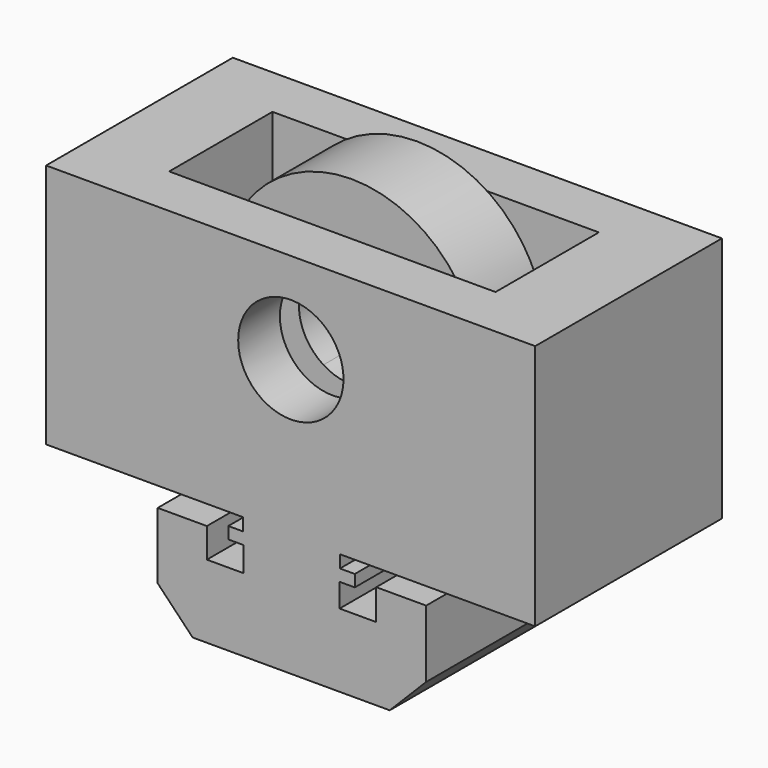
from build123d import *

# Parameters (mm, degrees)
F1_R     = 11
F1_R_2   = 4.5
F2_DEPTH = 3.5
F3_DEPTH = 10
F4_DEPTH = 10
F5_DEPTH = 3.5
F6_W     = 27.9663609021
F6_H     = 4.4681232143
F6_H_2   = 4.468114
F7_DEPTH = 20.1168
F9_D     = 9.0238834
F9_2_D   = 9.0238834


with BuildPart() as f2:
    # F1 (on Front) → F2 (new body)
    with BuildSketch(Plane.XZ):
        with Locations((0, 68.3300495148)):
            Circle(F1_R)
        with Locations((0, 68.3300495148)):
            Circle(F1_R_2, mode=Mode.SUBTRACT)
    extrude(amount=F2_DEPTH)

    # F1 (on Front) → F5 (join)
    with BuildSketch(Plane.XZ):
        with Locations((0, 68.3300495148)):
            Circle(F1_R)
        with Locations((0, 68.3300495148)):
            Circle(F1_R_2, mode=Mode.SUBTRACT)
    extrude(amount=-F5_DEPTH)

    # F9 (through all)
    with Locations(Plane.XZ.offset(10)):
        with Locations((0, 68.3441758156)):
            Hole(F9_D / 2)


with BuildPart() as f3:
    # F0 (on Front) → F3 (new body)
    with BuildSketch(Plane.XZ):
        Polygon((-11.4066531532, 47.7624452322), (-8.4118793069, 44.6501635015), (8.4724111924, 44.6501635015), (11.5947960294, 47.8070096632), (11.5947960294, 53.5628460348), (7.3167806841, 53.5628460348), (7.3167806841, 50.9305819869), (4.1807577363, 50.9305819869), (4.1807577363, 52.9469698668), (5.4795145406, 52.9469698668), (5.4795145406, 53.9606362581), (4.2101069703, 53.9606362581), (4.2101069703, 55.0376549363), (20.9357491112, 55.0376549363), (20.9357491112, 56.0549552958), (-20.9702910506, 56.0549552958), (-20.9702910506, 55.1326839005), (-4.0869387449, 55.1326839005), (-4.0869387449, 54.0556652223), (-5.3563463152, 54.0556652223), (-5.3563463152, 53.0420020223), (-4.0575895109, 53.0420020223), (-4.0575895109, 50.9196408093), (-7.1936124587, 50.9196408093), (-7.1936124587, 53.4538030624), (-11.4066531532, 53.4538030624), align=None)
        Polygon((-11.4066531532, 47.7624452322), (-8.4118793069, 44.6501635015), (8.4724111924, 44.6501635015), (11.5947960294, 47.8070096632), (11.5947960294, 53.5628460348), (7.3167806841, 53.5628460348), (7.3167806841, 50.9305819869), (4.1807577363, 50.9305819869), (4.1807577363, 52.9469698668), (5.4795145406, 52.9469698668), (5.4795145406, 53.9606362581), (4.2101069703, 53.9606362581), (4.2101069703, 55.0376549363), (20.9357491112, 55.0376549363), (20.9357491112, 56.0549552958), (-20.9702910506, 56.0549552958), (-20.9702910506, 55.1326839005), (-4.0869387449, 55.1326839005), (-4.0869387449, 54.0556652223), (-5.3563463152, 54.0556652223), (-5.3563463152, 53.0420020223), (-4.0575895109, 53.0420020223), (-4.0575895109, 50.9196408093), (-7.1936124587, 50.9196408093), (-7.1936124587, 53.4538030624), (-11.4066531532, 53.4538030624), align=None)
    extrude(amount=F3_DEPTH)

    # F0 (on Front) → F4 (join)
    with BuildSketch(Plane.XZ):
        Polygon((-11.4066531532, 47.7624452322), (-8.4118793069, 44.6501635015), (8.4724111924, 44.6501635015), (11.5947960294, 47.8070096632), (11.5947960294, 53.5628460348), (7.3167806841, 53.5628460348), (7.3167806841, 50.9305819869), (4.1807577363, 50.9305819869), (4.1807577363, 52.9469698668), (5.4795145406, 52.9469698668), (5.4795145406, 53.9606362581), (4.2101069703, 53.9606362581), (4.2101069703, 55.0376549363), (20.9357491112, 55.0376549363), (20.9357491112, 56.0549552958), (-20.9702910506, 56.0549552958), (-20.9702910506, 55.1326839005), (-4.0869387449, 55.1326839005), (-4.0869387449, 54.0556652223), (-5.3563463152, 54.0556652223), (-5.3563463152, 53.0420020223), (-4.0575895109, 53.0420020223), (-4.0575895109, 50.9196408093), (-7.1936124587, 50.9196408093), (-7.1936124587, 53.4538030624), (-11.4066531532, 53.4538030624), align=None)
    extrude(amount=-F4_DEPTH)

    # F6 (on face) → F7 (join)
    with BuildSketch(Plane.XY.offset(56.0549552958)):
        Polygon((20.9357491112, -10), (20.9357491112, 10), (13.9659060515, 10), (13.9659060515, 5.5318767857), (13.9659060515, -5.531886), (13.9659060515, -10), align=None)
        with Locations((-0.0172743996, 7.7659383928)):
            Rectangle(F6_W, F6_H)
        Polygon((-14.0004548506, 5.5318767857), (-14.0004548506, 10), (-20.9702910506, 10), (-20.9702910506, -10), (-14.0004548506, -10), (-14.0004548506, -5.531886), align=None)
        with Locations((-0.0172743996, -7.765943)):
            Rectangle(F6_W, F6_H_2)
    extrude(amount=F7_DEPTH)

    # F9#2 (through all)
    with Locations(Plane.XZ.offset(10)):
        with Locations((0, 68.3441758156)):
            Hole(F9_2_D / 2)


solid = Compound([f2.part, f3.part])
